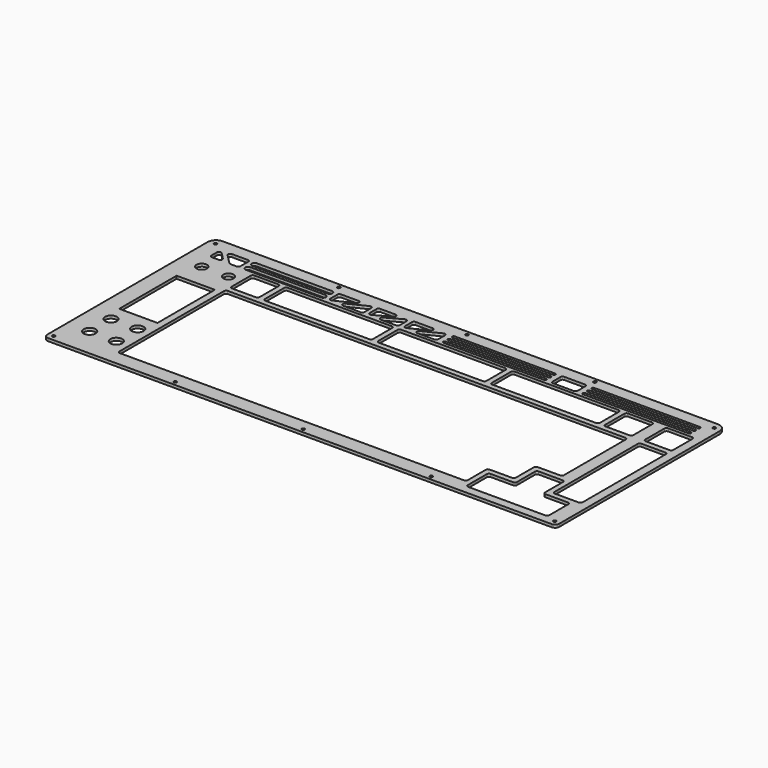
from build123d import *

# Parameters (mm, degrees)
SKETCH021_R     = 1.05
PAD005_DEPTH    = 2
SKETCH022_R     = 3.75
POCKET016_DEPTH = 5
POCKET017_DEPTH = 5
POCKET018_DEPTH = 5
POCKET019_DEPTH = 5
SKETCH026_W     = 27.3
SKETCH026_H     = 51.2
POCKET020_DEPTH = 5
POCKET026_DEPTH = 5
SKETCH048_R     = 4.25
POCKET036_DEPTH = 5


with BuildPart() as part:
    # Sketch021 → Pad005 (new body)
    with BuildSketch(Plane.XY.offset(2.9)):
        with BuildLine():
            Line((-6.5, 0.5), (-6.5, -142.5))
            ThreePointArc((-6.5, -142.5), (-5.62132, -144.62132), (-3.5, -145.5))
            Line((-3.5, -145.5), (355.925, -145.5))
            ThreePointArc((355.925, -145.5), (358.04632, -144.62132), (358.925, -142.5))
            Line((358.925, -142.5), (358.925, 0.5))
            ThreePointArc((358.925, 0.5), (357.167641, 4.742641), (352.925, 6.5))
            Line((352.925, 6.5), (-0.5, 6.5))
            ThreePointArc((-0.5, 6.5), (-4.742641, 4.742641), (-6.5, 0.5))
        make_face()
        with Locations((-1.742641, 1.742641)):
            Circle(SKETCH021_R, mode=Mode.SUBTRACT)
        with Locations((354.167641, 1.742641)):
            Circle(SKETCH021_R, mode=Mode.SUBTRACT)
        with Locations((84.85625, 3.5)):
            Circle(SKETCH021_R, mode=Mode.SUBTRACT)
        with Locations((176.2125, 3.5)):
            Circle(SKETCH021_R, mode=Mode.SUBTRACT)
        with Locations((267.56875, 3.5)):
            Circle(SKETCH021_R, mode=Mode.SUBTRACT)
        with Locations((84.85625, -142.5)):
            Circle(SKETCH021_R, mode=Mode.SUBTRACT)
        with Locations((176.2125, -142.5)):
            Circle(SKETCH021_R, mode=Mode.SUBTRACT)
        with Locations((267.56875, -142.5)):
            Circle(SKETCH021_R, mode=Mode.SUBTRACT)
        with Locations((-2.62132, -141.62132)):
            Circle(SKETCH021_R, mode=Mode.SUBTRACT)
        with Locations((355.04632, -141.62132)):
            Circle(SKETCH021_R, mode=Mode.SUBTRACT)
    extrude(amount=PAD005_DEPTH)

    # Sketch022 → Pocket016 (cut)
    with BuildSketch(Plane.XY.offset(5)):
        with Locations((9.525, -24.7)):
            Circle(SKETCH022_R)
        with Locations((28.575, -24.7)):
            Circle(SKETCH022_R)
        with BuildLine():
            Line((37.6, -16.175), (37.6, -33.225))
            ThreePointArc((37.6, -33.225), (38.03934, -34.28566), (39.1, -34.725))
            Line((39.1, -34.725), (56.15, -34.725))
            ThreePointArc((56.15, -34.725), (57.21066, -34.28566), (57.65, -33.225))
            Line((57.65, -33.225), (57.65, -16.175))
            ThreePointArc((57.65, -16.175), (57.21066, -15.11434), (56.15, -14.675))
            Line((56.15, -14.675), (39.1, -14.675))
            ThreePointArc((39.1, -14.675), (38.03934, -15.11434), (37.6, -16.175))
        make_face()
        with BuildLine():
            Line((61.4125, -16.175), (61.4125, -33.225))
            ThreePointArc((61.4125, -33.225), (61.85184, -34.28566), (62.9125, -34.725))
            Line((62.9125, -34.725), (137.1125, -34.725))
            ThreePointArc((137.1125, -34.725), (138.17316, -34.28566), (138.6125, -33.225))
            Line((138.6125, -33.225), (138.6125, -16.175))
            ThreePointArc((138.6125, -16.175), (138.17316, -15.11434), (137.1125, -14.675))
            Line((137.1125, -14.675), (62.9125, -14.675))
            ThreePointArc((62.9125, -14.675), (61.85184, -15.11434), (61.4125, -16.175))
        make_face()
        with BuildLine():
            Line((142.375, -16.175), (142.375, -33.225))
            ThreePointArc((142.375, -33.225), (142.81434, -34.28566), (143.875, -34.725))
            Line((143.875, -34.725), (218.075, -34.725))
            ThreePointArc((218.075, -34.725), (219.13566, -34.28566), (219.575, -33.225))
            Line((219.575, -33.225), (219.575, -16.175))
            ThreePointArc((219.575, -16.175), (219.13566, -15.11434), (218.075, -14.675))
            Line((218.075, -14.675), (143.875, -14.675))
            ThreePointArc((143.875, -14.675), (142.81434, -15.11434), (142.375, -16.175))
        make_face()
        with BuildLine():
            Line((223.3375, -16.175), (223.3375, -33.225))
            ThreePointArc((223.3375, -33.225), (223.77684, -34.28566), (224.8375, -34.725))
            Line((224.8375, -34.725), (299.0375, -34.725))
            ThreePointArc((299.0375, -34.725), (300.09816, -34.28566), (300.5375, -33.225))
            Line((300.5375, -33.225), (300.5375, -16.175))
            ThreePointArc((300.5375, -16.175), (300.09816, -15.11434), (299.0375, -14.675))
            Line((299.0375, -14.675), (224.8375, -14.675))
            ThreePointArc((224.8375, -14.675), (223.77684, -15.11434), (223.3375, -16.175))
        make_face()
        with BuildLine():
            Line((304.3, -16.175), (304.3, -33.225))
            ThreePointArc((304.3, -33.225), (304.73934, -34.28566), (305.8, -34.725))
            Line((305.8, -34.725), (322.85, -34.725))
            ThreePointArc((322.85, -34.725), (323.91066, -34.28566), (324.35, -33.225))
            Line((324.35, -33.225), (324.35, -16.175))
            ThreePointArc((324.35, -16.175), (323.91066, -15.11434), (322.85, -14.675))
            Line((322.85, -14.675), (305.8, -14.675))
            ThreePointArc((305.8, -14.675), (304.73934, -15.11434), (304.3, -16.175))
        make_face()
        with BuildLine():
            Line((332.875, -16.175), (332.875, -33.225))
            ThreePointArc((332.875, -33.225), (333.31434, -34.28566), (334.375, -34.725))
            Line((334.375, -34.725), (351.425, -34.725))
            ThreePointArc((351.425, -34.725), (352.48566, -34.28566), (352.925, -33.225))
            Line((352.925, -33.225), (352.925, -16.175))
            ThreePointArc((352.925, -16.175), (352.48566, -15.11434), (351.425, -14.675))
            Line((351.425, -14.675), (334.375, -14.675))
            ThreePointArc((334.375, -14.675), (333.31434, -15.11434), (332.875, -16.175))
        make_face()
    extrude(amount=-POCKET016_DEPTH, mode=Mode.SUBTRACT)

    # Sketch023 → Pocket017 (cut)
    with BuildSketch(Plane.XY.offset(5)):
        with BuildLine():
            Line((39.1, -38.4875), (322.85, -38.4875))
            ThreePointArc((324.35, -39.9875), (323.91066, -38.92684), (322.85, -38.4875))
            Line((324.35, -39.9875), (324.35, -95.1375))
            ThreePointArc((322.85, -96.6375), (323.91066, -96.19816), (324.35, -95.1375))
            Line((322.85, -96.6375), (306.8, -96.6375))
            ThreePointArc((306.8, -96.6375), (305.73934, -97.07684), (305.3, -98.1375))
            Line((305.3, -98.1375), (305.3, -114.1875))
            ThreePointArc((303.8, -115.6875), (304.86066, -115.24816), (305.3, -114.1875))
            Line((287.75, -115.6875), (303.8, -115.6875))
            ThreePointArc((287.75, -115.6875), (286.68934, -116.12684), (286.25, -117.1875))
            Line((286.25, -133.2375), (286.25, -117.1875))
            ThreePointArc((284.75, -134.7375), (285.81066, -134.29816), (286.25, -133.2375))
            Line((39.1, -134.7375), (284.75, -134.7375))
            ThreePointArc((37.6, -133.2375), (38.03934, -134.29816), (39.1, -134.7375))
            Line((37.6, -39.9875), (37.6, -133.2375))
            ThreePointArc((39.1, -38.4875), (38.03934, -38.92684), (37.6, -39.9875))
        make_face()
    extrude(amount=-POCKET017_DEPTH, mode=Mode.SUBTRACT)

    # Sketch024 → Pocket018 (cut)
    with BuildSketch(Plane.XY.offset(5)):
        with BuildLine():
            Line((332.875, -39.9875), (332.875, -114.1875))
            ThreePointArc((332.875, -114.1875), (333.31434, -115.24816), (334.375, -115.6875))
            Line((334.375, -115.6875), (351.425, -115.6875))
            ThreePointArc((351.425, -115.6875), (352.48566, -115.24816), (352.925, -114.1875))
            Line((352.925, -114.1875), (352.925, -39.9875))
            ThreePointArc((352.925, -39.9875), (352.48566, -38.92684), (351.425, -38.4875))
            Line((351.425, -38.4875), (334.375, -38.4875))
            ThreePointArc((334.375, -38.4875), (333.31434, -38.92684), (332.875, -39.9875))
        make_face()
    extrude(amount=-POCKET018_DEPTH, mode=Mode.SUBTRACT)

    # Sketch025 → Pocket019 (cut)
    with BuildSketch(Plane.XY.offset(5)):
        with BuildLine():
            Line((291.5125, -139.5), (346.6625, -139.5))
            ThreePointArc((346.6625, -139.5), (347.72316, -139.06066), (348.1625, -138))
            Line((348.1625, -138), (348.1625, -120.95))
            ThreePointArc((348.1625, -120.95), (347.72316, -119.88934), (346.6625, -119.45))
            Line((330.6125, -119.45), (346.6625, -119.45))
            ThreePointArc((329.1125, -117.95), (329.55184, -119.01066), (330.6125, -119.45))
            Line((329.1125, -101.9), (329.1125, -117.95))
            ThreePointArc((329.1125, -101.9), (328.67316, -100.83934), (327.6125, -100.4))
            Line((310.5625, -100.4), (327.6125, -100.4))
            ThreePointArc((310.5625, -100.4), (309.50184, -100.83934), (309.0625, -101.9))
            Line((309.0625, -117.95), (309.0625, -101.9))
            ThreePointArc((307.5625, -119.45), (308.62316, -119.01066), (309.0625, -117.95))
            Line((291.5125, -119.45), (307.5625, -119.45))
            ThreePointArc((291.5125, -119.45), (290.45184, -119.88934), (290.0125, -120.95))
            Line((290.0125, -138), (290.0125, -120.95))
            ThreePointArc((290.0125, -138), (290.45184, -139.06066), (291.5125, -139.5))
        make_face()
    extrude(amount=-POCKET019_DEPTH, mode=Mode.SUBTRACT)

    # Sketch026 → Pocket020 (cut)
    with BuildSketch(Plane.XY.offset(5)):
        with Locations((19.05, -67.5625)):
            Rectangle(SKETCH026_W, SKETCH026_H)
    extrude(amount=-POCKET020_DEPTH, mode=Mode.SUBTRACT)

    # Sketch033 → Pocket026 (cut)
    with BuildSketch(Plane.XY.offset(5)):
        with BuildLine():
            Line((5.32294, -5.978153), (5.32294, -10.8375))
            ThreePointArc((5.32294, -10.8375), (5.762279, -11.89816), (6.82294, -12.3375))
            Line((6.82294, -12.3375), (11.645903, -12.3375))
            ThreePointArc((11.645903, -12.3375), (13.030641, -11.414128), (12.710541, -9.780833))
            Line((7.887578, -4.921486), (12.710541, -9.780833))
            ThreePointArc((7.887578, -4.921486), (6.251519, -4.591257), (5.32294, -5.978153))
        make_face()
        with BuildLine():
            Line((13.15189, -2.3375), (24.537168, -2.3375))
            ThreePointArc((26.037168, -3.8375), (25.597828, -2.77684), (24.537168, -2.3375))
            Line((26.037168, -3.8375), (26.037168, -10.8375))
            ThreePointArc((24.537168, -12.3375), (25.597828, -11.89816), (26.037168, -10.8375))
            Line((24.537168, -12.3375), (20.099478, -12.3375))
            ThreePointArc((19.03484, -11.894167), (19.52285, -12.222238), (20.099478, -12.3375))
            Line((19.03484, -11.894167), (12.087251, -4.894167))
            ThreePointArc((13.15189, -2.3375), (11.767151, -3.260872), (12.087251, -4.894167))
        make_face()
        with BuildLine():
            ThreePointArc((31.037168, -2.3375), (29.037168, -4.3375), (31.037168, -6.3375))
            Line((31.037168, -6.3375), (84.581121, -6.3375))
            ThreePointArc((84.581121, -6.3375), (86.581121, -4.3375), (84.581121, -2.3375))
            Line((84.581121, -2.3375), (31.037168, -2.3375))
        make_face()
        with BuildLine():
            ThreePointArc((31.037168, -8.3375), (29.037168, -10.3375), (31.037168, -12.3375))
            Line((31.037168, -12.3375), (84.581121, -12.3375))
            ThreePointArc((84.581121, -12.3375), (86.581121, -10.3375), (84.581121, -8.3375))
            Line((84.581121, -8.3375), (31.037168, -8.3375))
        make_face()
        with BuildLine():
            Line((89.581121, -3.8375), (89.581121, -9.932298))
            ThreePointArc((89.581121, -9.932298), (90.28736, -11.205068), (91.741046, -11.279332))
            Line((91.741046, -11.279332), (104.181703, -5.184534))
            ThreePointArc((104.181703, -5.184534), (104.983036, -3.498789), (103.521778, -2.3375))
            Line((103.521778, -2.3375), (91.081121, -2.3375))
            ThreePointArc((91.081121, -2.3375), (90.020461, -2.77684), (89.581121, -3.8375))
        make_face()
        with BuildLine():
            Line((99.938437, -9.490466), (112.379094, -3.395668))
            ThreePointArc((114.539019, -4.742702), (113.83278, -3.469932), (112.379094, -3.395668))
            Line((114.539019, -4.742702), (114.539019, -10.8375))
            ThreePointArc((113.039019, -12.3375), (114.099679, -11.89816), (114.539019, -10.8375))
            Line((113.039019, -12.3375), (100.598362, -12.3375))
            ThreePointArc((99.938437, -9.490466), (99.137104, -11.176211), (100.598362, -12.3375))
        make_face()
        with BuildLine():
            Line((117.539019, -3.8375), (117.539019, -9.798473))
            ThreePointArc((117.539019, -9.798473), (118.276051, -11.089937), (119.762859, -11.112267))
            Line((119.762859, -11.112267), (130.582229, -5.151294))
            ThreePointArc((130.582229, -5.151294), (131.311092, -3.463797), (129.858389, -2.3375))
            Line((129.858389, -2.3375), (119.039019, -2.3375))
            ThreePointArc((119.039019, -2.3375), (117.978358, -2.77684), (117.539019, -3.8375))
        make_face()
        with BuildLine():
            Line((126.790715, -9.523706), (137.610085, -3.562733))
            ThreePointArc((139.833925, -4.876527), (139.096893, -3.585063), (137.610085, -3.562733))
            Line((139.833925, -4.876527), (139.833925, -10.8375))
            ThreePointArc((138.333925, -12.3375), (139.394585, -11.89816), (139.833925, -10.8375))
            Line((138.333925, -12.3375), (127.514555, -12.3375))
            ThreePointArc((126.790715, -9.523706), (126.061852, -11.211203), (127.514555, -12.3375))
        make_face()
        with BuildLine():
            Line((142.833925, -3.8375), (142.833925, -9.904106))
            ThreePointArc((142.833925, -9.904106), (143.546817, -11.181001), (145.007874, -11.244178))
            Line((145.007874, -11.244178), (157.070643, -5.177572))
            ThreePointArc((157.070643, -5.177572), (157.856164, -3.491168), (156.396694, -2.3375))
            Line((156.396694, -2.3375), (144.333925, -2.3375))
            ThreePointArc((144.333925, -2.3375), (143.273265, -2.77684), (142.833925, -3.8375))
        make_face()
        with BuildLine():
            Line((152.932468, -9.497428), (164.995237, -3.430822))
            ThreePointArc((167.169186, -4.770894), (166.456293, -3.493999), (164.995237, -3.430822))
            Line((167.169186, -4.770894), (167.169186, -10.8375))
            ThreePointArc((165.669186, -12.3375), (166.729846, -11.89816), (167.169186, -10.8375))
            Line((165.669186, -12.3375), (153.606417, -12.3375))
            ThreePointArc((152.932468, -9.497428), (152.146946, -11.183832), (153.606417, -12.3375))
        make_face()
        with BuildLine():
            ThreePointArc((172.169186, -2.3375), (171.169186, -3.3375), (172.169186, -4.3375))
            Line((172.169186, -4.3375), (243.856102, -4.3375))
            ThreePointArc((243.856102, -4.3375), (244.856102, -3.3375), (243.856102, -2.3375))
            Line((243.856102, -2.3375), (172.169186, -2.3375))
        make_face()
        with BuildLine():
            ThreePointArc((172.169186, -6.3375), (171.169186, -7.3375), (172.169186, -8.3375))
            Line((172.169186, -8.3375), (243.856102, -8.3375))
            ThreePointArc((243.856102, -8.3375), (244.856102, -7.3375), (243.856102, -6.3375))
            Line((243.856102, -6.3375), (172.169186, -6.3375))
        make_face()
        with BuildLine():
            ThreePointArc((172.169186, -10.3375), (171.169186, -11.3375), (172.169186, -12.3375))
            Line((172.169186, -12.3375), (243.856102, -12.3375))
            ThreePointArc((243.856102, -12.3375), (244.856102, -11.3375), (243.856102, -10.3375))
            Line((243.856102, -10.3375), (172.169186, -10.3375))
        make_face()
        with BuildLine():
            Line((248.856102, -3.8375), (248.856102, -10.8375))
            ThreePointArc((248.856102, -10.8375), (249.295442, -11.89816), (250.356102, -12.3375))
            Line((250.356102, -12.3375), (265.17875, -12.3375))
            ThreePointArc((265.17875, -12.3375), (266.23941, -11.89816), (266.67875, -10.8375))
            Line((266.67875, -10.8375), (266.67875, -3.8375))
            ThreePointArc((266.67875, -3.8375), (266.23941, -2.77684), (265.17875, -2.3375))
            Line((265.17875, -2.3375), (250.356102, -2.3375))
            ThreePointArc((250.356102, -2.3375), (249.295442, -2.77684), (248.856102, -3.8375))
        make_face()
        with BuildLine():
            ThreePointArc((271.67875, -2.3375), (270.67875, -3.3375), (271.67875, -4.3375))
            Line((271.67875, -4.3375), (347.145996, -4.3375))
            ThreePointArc((347.145996, -4.3375), (348.145996, -3.3375), (347.145996, -2.3375))
            Line((347.145996, -2.3375), (271.67875, -2.3375))
        make_face()
        with BuildLine():
            ThreePointArc((271.67875, -6.3375), (270.67875, -7.3375), (271.67875, -8.3375))
            Line((271.67875, -8.3375), (347.145996, -8.3375))
            ThreePointArc((347.145996, -8.3375), (348.145996, -7.3375), (347.145996, -6.3375))
            Line((347.145996, -6.3375), (271.67875, -6.3375))
        make_face()
        with BuildLine():
            ThreePointArc((271.67875, -10.3375), (270.67875, -11.3375), (271.67875, -12.3375))
            Line((271.67875, -12.3375), (347.145996, -12.3375))
            ThreePointArc((347.145996, -12.3375), (348.145996, -11.3375), (347.145996, -10.3375))
            Line((347.145996, -10.3375), (271.67875, -10.3375))
        make_face()
    extrude(amount=-POCKET026_DEPTH, mode=Mode.SUBTRACT)

    # Sketch048 → Pocket036 (cut)
    with BuildSketch(Plane.XY.offset(5)):
        with Locations((9.525, -105.6625)):
            Circle(SKETCH048_R)
        with Locations((28.575, -105.6625)):
            Circle(SKETCH048_R)
        with Locations((28.575, -124.7125)):
            Circle(SKETCH048_R)
        with Locations((9.525, -124.7125)):
            Circle(SKETCH048_R)
    extrude(amount=-POCKET036_DEPTH, mode=Mode.SUBTRACT)


with BuildPart() as part_1:
    # Body005 placement: moved
    add(part.part.moved(Location((0, 0, 4.2))))


solid = part_1.part
